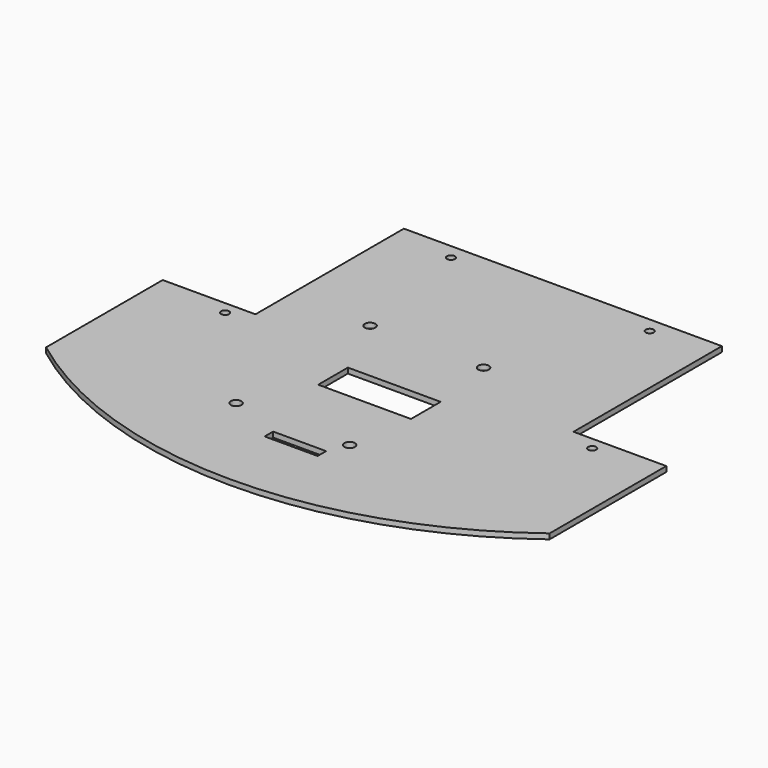
from build123d import *

# Parameters (mm, degrees)
SKETCH049_R      = 2
EXTRUDE050_DEPTH = 15
SKETCH044_W      = 35
SKETCH044_H      = 14
EXTRUDE043_DEPTH = 15
SKETCH040_R      = 1.5
SKETCH040_W      = 20
SKETCH040_H      = 4
EXTRUDE039_DEPTH = 2


with BuildPart() as weapon_cover_screw_holes001:
    # Sketch049 (on Face6 of Cut025) → Extrude050 (new body, symmetric)
    with BuildSketch(Plane.XY.offset(39.2)):
        with Locations((-29.074951, -82.714325)):
            Circle(SKETCH049_R)
        with Locations((13.75458, -82.714325)):
            Circle(SKETCH049_R)
        with Locations((-29.074951, -19.516283)):
            Circle(SKETCH049_R)
        with Locations((13.75458, -19.516283)):
            Circle(SKETCH049_R)
    extrude(amount=EXTRUDE050_DEPTH, both=True)


with BuildPart() as servo_lid_gap:
    # Sketch044 (on Face8 of Cut013) → Extrude043 (new body, symmetric)
    with BuildSketch(Plane.XY.offset(38)):
        with Locations((0, -51.440889)):
            Rectangle(SKETCH044_W, SKETCH044_H)
    extrude(amount=EXTRUDE043_DEPTH, both=True)


with BuildPart() as lid:
    # Sketch040 (on Face4 of Cut018) → Extrude039 (new body)
    with BuildSketch(Plane.XY.offset(35)):
        with BuildLine():
            Line((-60, 35.090242), (60, 35.090242))
            Line((60, 35.090242), (60, -34.909758))
            Line((60, -34.909758), (95, -34.909758))
            Line((95, -34.909758), (95, -89.909758))
            ThreePointArc((-95, -89.909758), (0, -121.776758), (95, -89.909758))
            Line((-95, -34.909758), (-95, -89.909758))
            Line((-60, -34.909758), (-95, -34.909758))
            Line((-60, 35.090242), (-60, -34.909758))
        make_face()
        with Locations((70.898361, -39.7159)):
            Circle(SKETCH040_R, mode=Mode.SUBTRACT)
        with Locations((37.389542, 29.290899)):
            Circle(SKETCH040_R, mode=Mode.SUBTRACT)
        with Locations((-37.606323, 29.30405)):
            Circle(SKETCH040_R, mode=Mode.SUBTRACT)
        with Locations((-67.618576, -39.684311)):
            Circle(SKETCH040_R, mode=Mode.SUBTRACT)
        with Locations((0.80288, -92.081482)):
            Rectangle(SKETCH040_W, SKETCH040_H, mode=Mode.SUBTRACT)
    extrude(amount=EXTRUDE039_DEPTH)

    # Cut022: cut Servo Lid Gap
    add(servo_lid_gap.part, mode=Mode.SUBTRACT)

    # Cut027: cut Weapon Cover Screw Holes001
    add(weapon_cover_screw_holes001.part, mode=Mode.SUBTRACT)


solid = lid.part
